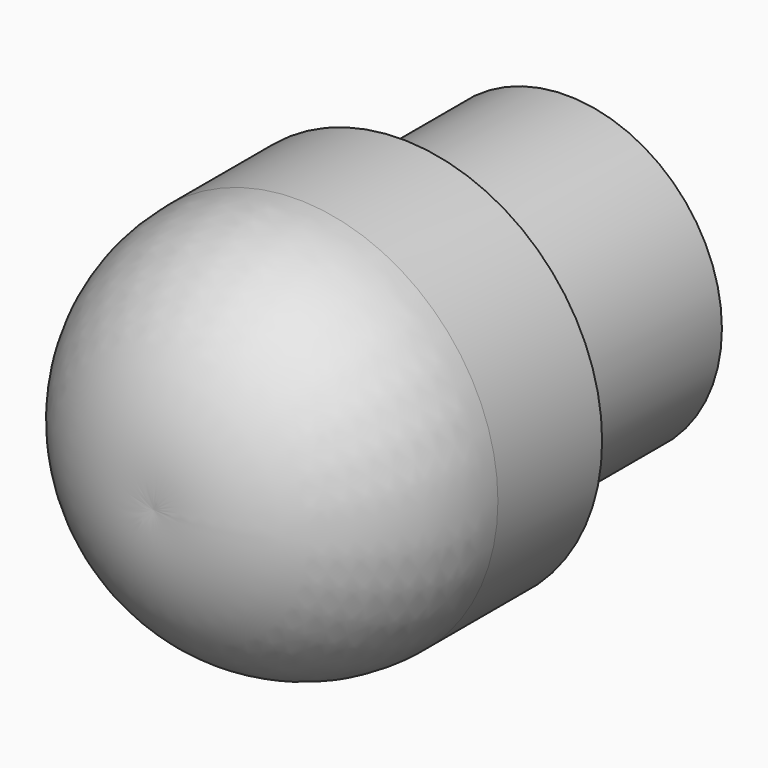
from build123d import *


with BuildPart() as f1:
    # F0 (on Top) → F1 (revolve)
    with BuildSketch(Plane.XY):
        with BuildLine():
            Line((0, 50), (0, 0))
            ThreePointArc((0, 0), (13.588548, 4.364017), (19.408356, 17.395637))
            Line((19.408356, 17.395637), (19.408356, 30))
            Line((19.408356, 30), (15, 30))
            Line((15, 30), (15, 50))
            Line((15, 50), (0, 50))
        make_face()
    revolve(axis=Axis((0, 25, 0), (0, 1, 0)))


solid = f1.part
